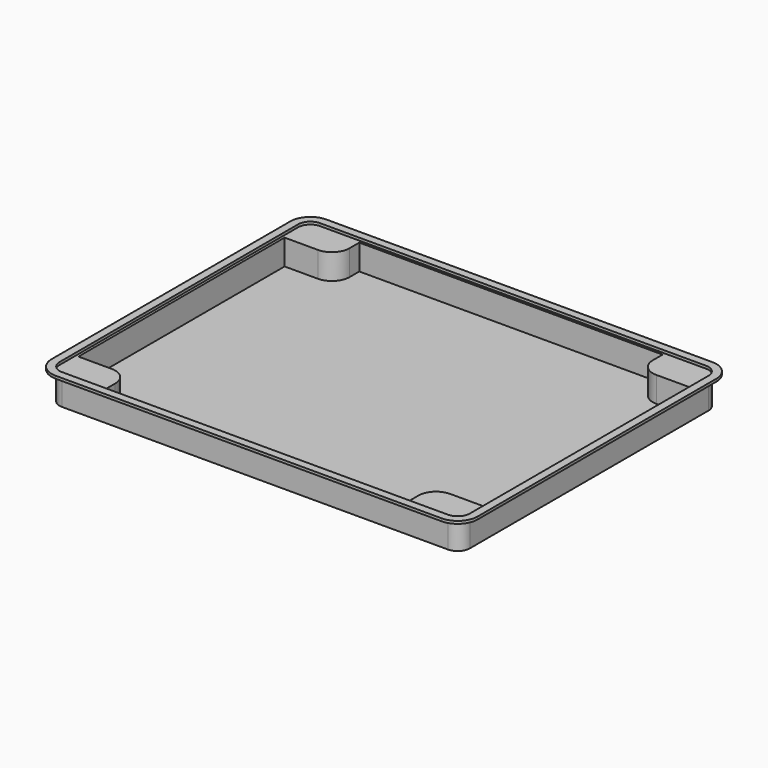
from build123d import *

# Parameters (mm, degrees)
PAD003_DEPTH    = 16
POCKET002_DEPTH = 14.5


with BuildPart() as part:
    # Sketch006 → Pad003 (new body)
    with BuildSketch(Plane.XY):
        with BuildLine():
            ThreePointArc((-110.08, 92), (-114.973179, 89.973179), (-117, 85.08))
            Line((-117, -85.08), (-117, 85.08))
            ThreePointArc((-117, -85.08), (-114.973179, -89.973179), (-110.08, -92))
            Line((110.08, -92), (-110.08, -92))
            ThreePointArc((110.08, -92), (114.973179, -89.973179), (117, -85.08))
            Line((117, 85.08), (117, -85.08))
            ThreePointArc((117, 85.08), (114.973179, 89.973179), (110.08, 92))
            Line((-110.08, 92), (110.08, 92))
        make_face()
    extrude(amount=PAD003_DEPTH)

    # Sketch007 → Pocket002 (cut)
    with BuildSketch(Plane.XY.offset(16)):
        with BuildLine():
            Line((-115.5, 73.5), (-115.5, -73.5))
            Line((-115.5, -73.5), (-96.5, -73.5))
            ThreePointArc((-86.5, -83.5), (-89.428932, -76.428932), (-96.5, -73.5))
            Line((-86.5, -90.5), (-86.5, -83.5))
            Line((86.5, -90.5), (-86.5, -90.5))
            Line((86.5, -83.5), (86.5, -90.5))
            ThreePointArc((96.5, -73.5), (89.428932, -76.428932), (86.5, -83.5))
            Line((115.5, -73.5), (96.5, -73.5))
            Line((115.5, 73.5), (115.5, -73.5))
            Line((96.5, 73.5), (115.5, 73.5))
            ThreePointArc((86.5, 83.5), (89.428932, 76.428932), (96.5, 73.5))
            Line((86.5, 90.5), (86.5, 83.5))
            Line((-86.5, 90.5), (86.5, 90.5))
            Line((-86.5, 90.5), (-86.5, 83.5))
            ThreePointArc((-96.5, 73.5), (-89.428932, 76.428932), (-86.5, 83.5))
            Line((-115.5, 73.5), (-96.5, 73.5))
        make_face()
    extrude(amount=-POCKET002_DEPTH, mode=Mode.SUBTRACT)

    # AdditivePipe001: sweep along a path in Sketch009
    with BuildLine(Plane.XY.offset(16)) as additivepipe001_path:
        ThreePointArc((-110.08, 92), (-114.973179, 89.973179), (-117, 85.08))
        Line((-117, 85.08), (-117, -85.08))
        ThreePointArc((-117, -85.08), (-114.973179, -89.973179), (-110.08, -92))
        Line((-110.08, -92), (110.08, -92))
        ThreePointArc((110.08, -92), (114.973179, -89.973179), (117, -85.08))
        Line((117, -85.08), (117, 85.08))
        ThreePointArc((117, 85.08), (114.973179, 89.973179), (110.08, 92))
        Line((110.08, 92), (-110.08, 92))
    # Sketch008 → AdditivePipe001 (sweep)
    with BuildSketch(Plane.XZ):
        with BuildLine():
            Line((117, 14.5), (117, 16))
            Line((117, 17.5), (117, 16))
            Line((121.5, 17.5), (117, 17.5))
            Line((121.5, 16), (121.5, 17.5))
            Line((118.5, 16), (121.5, 16))
            ThreePointArc((118.5, 16), (117.43934, 15.56066), (117, 14.5))
        make_face()
    sweep(path=additivepipe001_path.line)


solid = part.part
